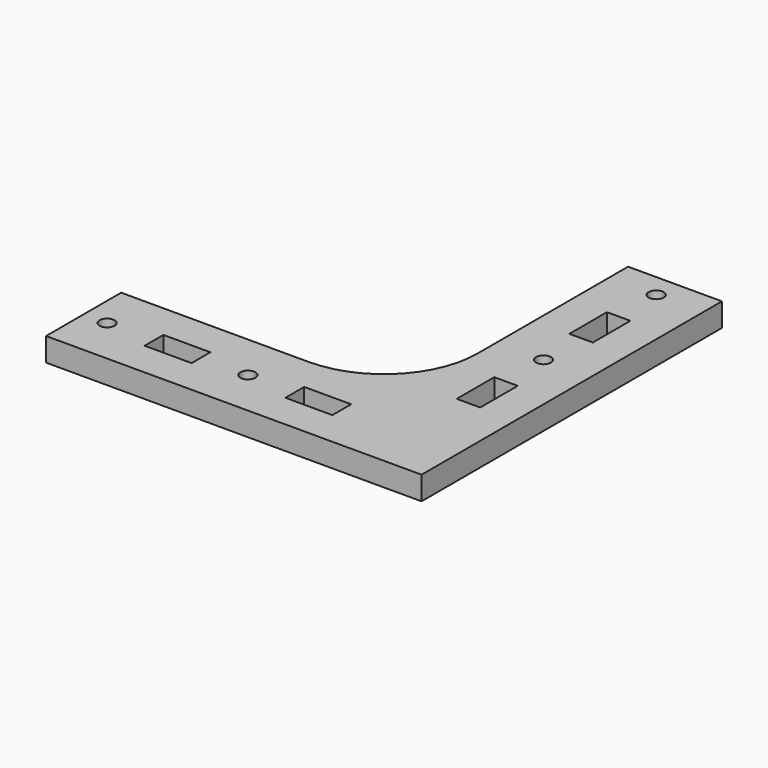
from build123d import *

# Parameters (mm, degrees)
F1_R     = 1.6
F1_W     = 10
F1_H     = 5
F1_W_2   = 5
F1_H_2   = 10
F2_DEPTH = 5


with BuildPart() as f2:
    # F1 (on Top) → F2 (new body)
    with BuildSketch(Plane.XY):
        with BuildLine():
            Line((-80, 0), (0, 0))
            Line((0, 0), (0, 80))
            Line((0, 80), (-20, 80))
            Line((-20, 80), (-20, 40))
            ThreePointArc((-20, 40), (-25.8578643763, 25.8578643763), (-40, 20))
            Line((-40, 20), (-80, 20))
            Line((-80, 20), (-80, 0))
        make_face()
        with Locations((-75, 10)):
            Circle(F1_R, mode=Mode.SUBTRACT)
        with Locations((-60, 10)):
            Rectangle(F1_W, F1_H, mode=Mode.SUBTRACT)
        with Locations((-45, 10)):
            Circle(F1_R, mode=Mode.SUBTRACT)
        with Locations((-30, 10)):
            Rectangle(F1_W, F1_H, mode=Mode.SUBTRACT)
        with Locations((-10, 30)):
            Rectangle(F1_W_2, F1_H_2, mode=Mode.SUBTRACT)
        with Locations((-10, 45)):
            Circle(F1_R, mode=Mode.SUBTRACT)
        with Locations((-10, 60)):
            Rectangle(F1_W_2, F1_H_2, mode=Mode.SUBTRACT)
        with Locations((-10, 75)):
            Circle(F1_R, mode=Mode.SUBTRACT)
    extrude(amount=F2_DEPTH)


solid = f2.part
